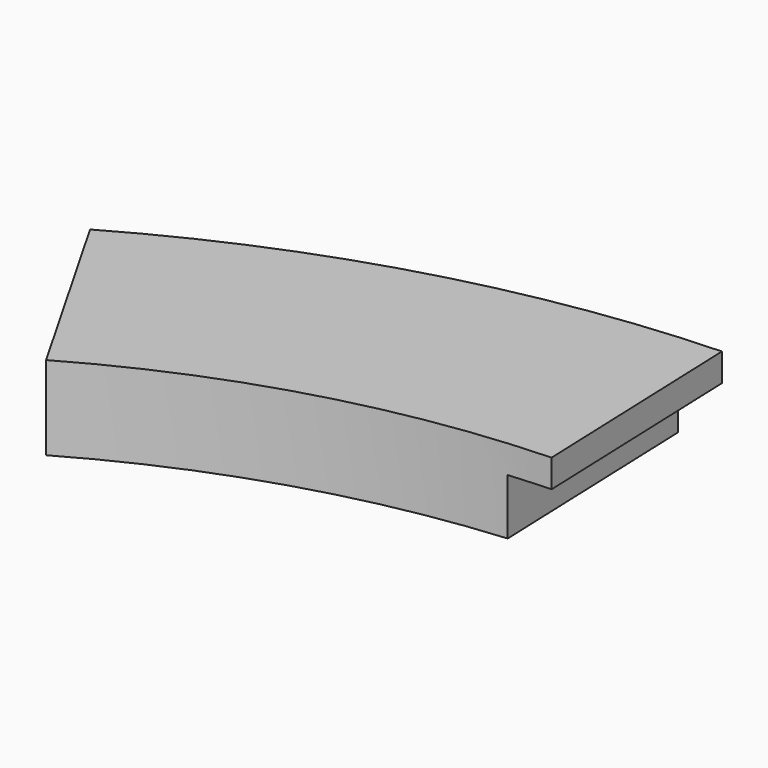
from build123d import *

# Parameters (mm, degrees)
F1_DEPTH = 9.525
F3_DEPTH = 12.7


with BuildPart() as f1:
    # F0 (on Top) → F1 (new body, symmetric)
    with BuildSketch(Plane.XY):
        with BuildLine():
            Line((-7.5431177714, 203.059945273), (-9.4288972142, 253.8249315913))
            ThreePointArc((-9.4288972142, 253.8249315913), (-69.899192714, 244.192757587), (-126.3072012065, 220.3689881162))
            Line((-126.3072012065, 220.3689881162), (-101.0457609652, 176.295190493))
            ThreePointArc((-101.0457609652, 176.295190493), (-55.9193541712, 195.3542060696), (-7.5431177714, 203.059945273))
        make_face()
    extrude(amount=F1_DEPTH, both=True)

    # F2 (on face) → F3 (cut)
    with BuildSketch(Plane(origin=(0, 0, -9.525), x_dir=(1, 0, 0), z_dir=(0, 0, -1))):
        with BuildLine():
            ThreePointArc((-7.5431177714, -203.059945273), (-12.3015704517, -202.8272944266), (-17.0532610321, -202.4831506278))
            Line((-17.0532610321, -202.4831506278), (-18.9407001232, -253.292814503))
            ThreePointArc((-18.9407001232, -253.292814503), (-14.1872936257, -253.6034713871), (-9.4288972142, -253.8249315913))
            Line((-9.4288972142, -253.8249315913), (-7.5431177714, -203.059945273))
        make_face()
    extrude(amount=-F3_DEPTH, mode=Mode.SUBTRACT)


solid = f1.part
